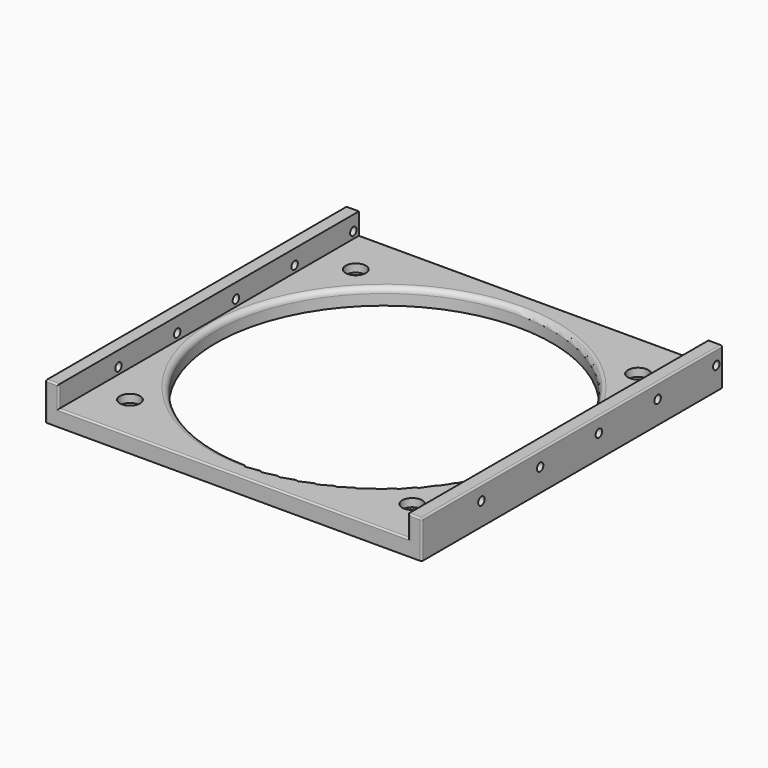
from build123d import *

# Parameters (mm, degrees)
SKETCH003_W          = 140
SKETCH003_H          = 140
SKETCH003_R          = 2.25
SKETCH003_R_2        = 62.5
PAD_DEPTH            = 6
SKETCH009_W          = 5
SKETCH009_H          = 140
PAD003_DEPTH         = 8
SKETCH010_R          = 3.75
POCKET002_DEPTH      = 3
SKETCH011_R          = 1.5
POCKET003_DEPTH      = 70.001
POCKET003_DEPTH_BACK = 70.001
LINEARPATTERN_COUNT  = 5
LINEARPATTERN_PITCH  = 27.3
FILLET_R             = 2
FILLET001_R          = 0.6


with BuildPart() as part:
    # Sketch003 → Pad (new body)
    with BuildSketch(Plane.XY):
        Rectangle(SKETCH003_W, SKETCH003_H)
        with Locations((52.5, 52.5)):
            Circle(SKETCH003_R, mode=Mode.SUBTRACT)
        with Locations((52.5, -52.5)):
            Circle(SKETCH003_R, mode=Mode.SUBTRACT)
        with Locations((-52.5, -52.5)):
            Circle(SKETCH003_R, mode=Mode.SUBTRACT)
        with Locations((-52.5, 52.5)):
            Circle(SKETCH003_R, mode=Mode.SUBTRACT)
        Circle(SKETCH003_R_2, mode=Mode.SUBTRACT)
    extrude(amount=PAD_DEPTH)

    # Sketch009 → Pad003 (join)
    with BuildSketch(Plane.XY.offset(6)):
        with Locations((-67.5, 0)):
            Rectangle(SKETCH009_W, SKETCH009_H)
        with Locations((67.5, 0)):
            Rectangle(SKETCH009_W, SKETCH009_H)
    extrude(amount=PAD003_DEPTH)

    # Sketch010 → Pocket002 (cut)
    with BuildSketch(Plane.XY.offset(6)):
        with Locations((52.5, 52.5)):
            Circle(SKETCH010_R)
        with Locations((-52.5, 52.5)):
            Circle(SKETCH010_R)
        with Locations((-52.5, -52.5)):
            Circle(SKETCH010_R)
        with Locations((52.5, -52.5)):
            Circle(SKETCH010_R)
    extrude(amount=-POCKET002_DEPTH, mode=Mode.SUBTRACT)

    # Sketch011 → Pocket003 (cut, two sides)
    with BuildSketch(Plane.YZ) as pocket003_sk:
        with Locations((67, 8.5)):
            Circle(SKETCH011_R)
    pocket003 = extrude(amount=-POCKET003_DEPTH, mode=Mode.SUBTRACT) + extrude(pocket003_sk.sketch, amount=POCKET003_DEPTH_BACK, mode=Mode.SUBTRACT)

    # LinearPattern: Pocket003 ×5
    with Locations(*[(0, -i * LINEARPATTERN_PITCH, 0) for i in range(1, LINEARPATTERN_COUNT)]):
        add(pocket003, mode=Mode.SUBTRACT)

    # Fillet
    fillet_edges = [part.edges().sort_by_distance(p)[0] for p in [
        (-62.5, 0, 6),
    ]]
    fillet(fillet_edges, radius=FILLET_R)

    # Fillet001
    fillet001_edges = [part.edges().sort_by_distance(p)[0] for p in [
        (67.5, -70, 14),
        (70, -70, 7),
        (70, 0, 14),
        (67.5, 70, 14),
        (70, 70, 7),
        (0, 70, 6),
        (0, -70, 6),
        (-67.5, -70, 14),
        (-70, -70, 7),
        (-70, 0, 14),
        (-67.5, 70, 14),
        (-70, 70, 7),
        (-65, 70, 10),
        (-65, -70, 10),
        (65, -70, 10),
        (65, 70, 10),
    ]]
    fillet(fillet001_edges, radius=FILLET001_R)


solid = part.part
